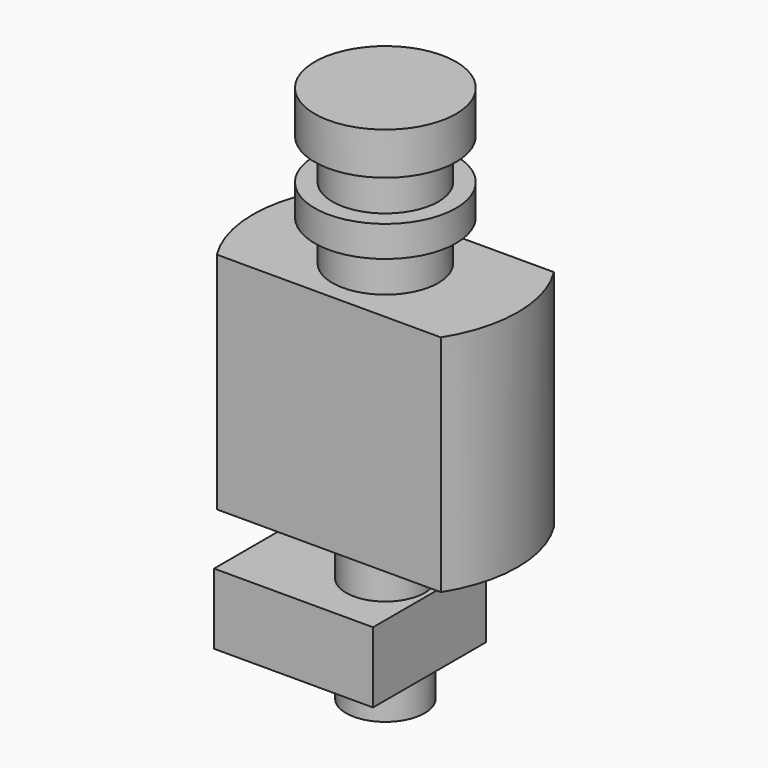
from build123d import *

# Parameters (mm, degrees)
F0_W          = 18
F0_H          = 16
F1_DEPTH      = 8
F2_R          = 4.45
F3_DEPTH      = 14
F3_DEPTH_BACK = 4
F5_DEPTH      = 25.4
F6_R          = 6
F7_DEPTH      = 4.6
F8_R          = 8
F9_DEPTH      = 3.5
F10_R         = 6
F11_DEPTH     = 4.6
F12_R         = 8
F13_DEPTH     = 4.8


with BuildPart() as f1:
    # F0 (on Top) → F1 (new body)
    with BuildSketch(Plane.XY):
        with Locations((-4, 0)):
            Rectangle(F0_W, F0_H)
    extrude(amount=F1_DEPTH)

    # F2 (on Top) → F3 (join, two sides)
    with BuildSketch(Plane.XY) as f3_sk:
        Circle(F2_R)
    extrude(amount=F3_DEPTH)
    extrude(f3_sk.sketch, amount=-F3_DEPTH_BACK)

    # F4 (on face) → F5 (join)
    with BuildSketch(Plane.XY.offset(14)):
        with BuildLine():
            Line((12.6885775404, 8), (-12.6885775404, 8))
            ThreePointArc((-12.6885775404, 8), (-15, 0), (-12.6885775404, -8))
            Line((-12.6885775404, -8), (12.6885775404, -8))
            ThreePointArc((12.6885775404, -8), (15, 0), (12.6885775404, 8))
        make_face()
    extrude(amount=F5_DEPTH)

    # F6 (on face) → F7 (join)
    with BuildSketch(Plane.XY.offset(39.4)):
        Circle(F6_R)
    extrude(amount=F7_DEPTH)

    # F8 (on face) → F9 (join)
    with BuildSketch(Plane.XY.offset(44)):
        Circle(F8_R)
    extrude(amount=F9_DEPTH)

    # F10 (on face) → F11 (join)
    with BuildSketch(Plane.XY.offset(47.5)):
        Circle(F10_R)
    extrude(amount=F11_DEPTH)

    # F12 (on face) → F13 (join)
    with BuildSketch(Plane.XY.offset(52.1)):
        Circle(F12_R)
    extrude(amount=F13_DEPTH)


solid = f1.part
